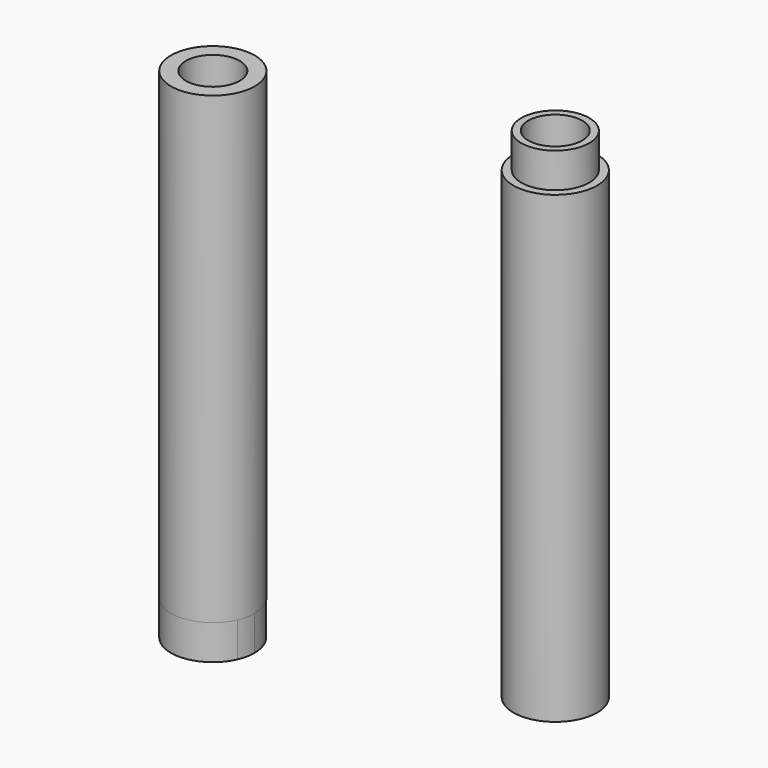
from build123d import *

# Parameters (mm, degrees)
F0_R     = 9.1714865533
F0_R_2   = 7.6710719474
F0_R_3   = 5.9049676463
F1_DEPTH = 101.6
F2_R     = 7.4498269309
F2_R_2   = 5.9049676463
F3_DEPTH = 7.62
F4_R     = 9.1714865533
F4_R_2   = 7.6710719474
F4_R_3   = 5.9049676463
F5_DEPTH = 101.6
F6_R     = 7.6710719474
F7_DEPTH = 7.62


with BuildPart() as f1:
    # F0 (on Top) → F1 (new body)
    with BuildSketch(Plane.XY):
        with Locations((29.2927622795, 25.6904140115)):
            Circle(F0_R)
        with Locations((29.2927622795, 25.6904140115)):
            Circle(F0_R_2, mode=Mode.SUBTRACT)
        with Locations((29.2927622795, 25.6904140115)):
            Circle(F0_R_2)
        with Locations((29.2927622795, 25.6904140115)):
            Circle(F0_R_3, mode=Mode.SUBTRACT)
    extrude(amount=F1_DEPTH)

    # F2 (on face) → F3 (join)
    with BuildSketch(Plane.XY.offset(101.6)):
        with Locations((29.2927622795, 25.6904140115)):
            Circle(F2_R)
        with Locations((29.2927622795, 25.6904140115)):
            Circle(F2_R_2, mode=Mode.SUBTRACT)
    extrude(amount=F3_DEPTH)


with BuildPart() as f5:
    # F4 (on Top) → F5 (new body)
    with BuildSketch(Plane.XY):
        with Locations((-39.3837876618, 17.8059246391)):
            Circle(F4_R)
        with Locations((-39.3837876618, 17.8059246391)):
            Circle(F4_R_2, mode=Mode.SUBTRACT)
        with Locations((-39.3837876618, 17.8059246391)):
            Circle(F4_R_2)
        with Locations((-39.3837876618, 17.8059246391)):
            Circle(F4_R_3, mode=Mode.SUBTRACT)
    extrude(amount=F5_DEPTH)

    # F6 (on face) → F7 (join)
    with BuildSketch(Plane(origin=(0, 0, 0), x_dir=(1, 0, 0), z_dir=(0, 0, -1))):
        with BuildLine():
            ThreePointArc((-47.7661005186, -21.5278860533), (-37.4776533563, -26.7303737374), (-30.2313894959, -17.763229087))
            ThreePointArc((-30.2313894959, -17.763229087), (-30.4308518838, -15.8608758146), (-31.0205631925, -14.0412676728))
            ThreePointArc((-31.0205631925, -14.0412676728), (-43.1271090193, -9.4331287612), (-47.7661005186, -21.5278860533))
        make_face()
        with Locations((-39.4028760493, -17.763229087)):
            Circle(F6_R, mode=Mode.SUBTRACT)
    extrude(amount=F7_DEPTH)


solid = Compound([f1.part, f5.part])
